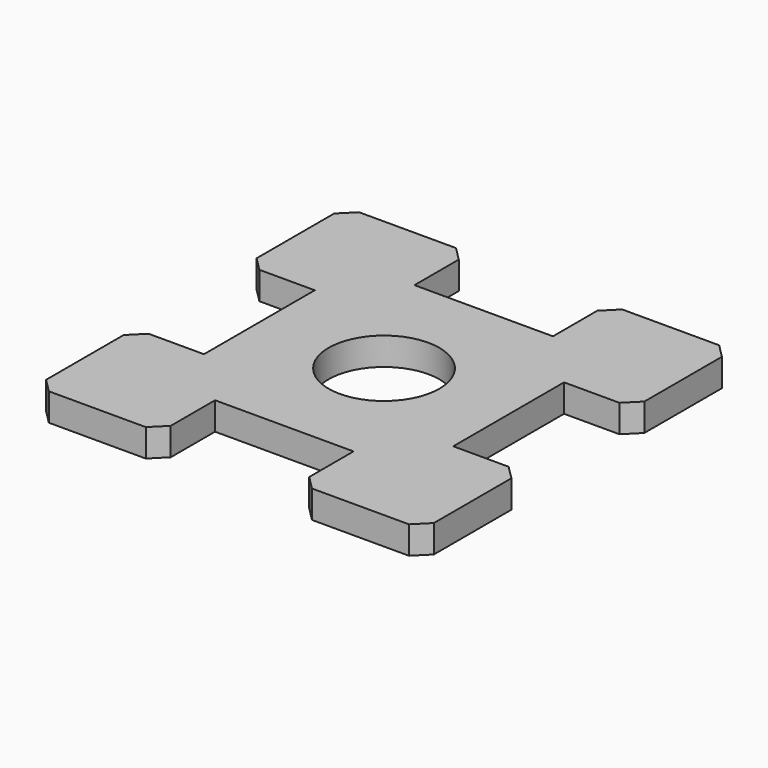
from build123d import *

# Parameters (mm, degrees)
F1_DEPTH = 1
F2_SIZE  = 0.5
F3_R     = 2
F4_DEPTH = 25


with BuildPart() as f1:
    # F0 (on Top) → F1 (new body)
    with BuildSketch(Plane.XY):
        Polygon((-7, -2.5), (-7, -7), (-2.5, -7), (-2.5, -4.5), (2.5, -4.5), (2.5, -7), (7, -7), (7, -2.5), (4.5, -2.5), (4.5, 2.5), (7, 2.5), (7, 7), (2.5, 7), (2.5, 4.5), (-2.5, 4.5), (-2.5, 7), (-7, 7), (-7, 2.5), (-4.5, 2.5), (-4.5, -2.5), align=None)
    extrude(amount=F1_DEPTH)

    # F2
    f2_edges = [f1.edges().sort_by_distance(p)[0] for p in [
        (-7, -7, 0.5),
        (-2.5, -7, 0.5),
        (-7, -2.5, 0.5),
        (-7, 2.5, 0.5),
        (-7, 7, 0.5),
        (-2.5, 7, 0.5),
        (2.5, 7, 0.5),
        (7, 7, 0.5),
        (7, -2.5, 0.5),
        (7, -7, 0.5),
        (2.5, -7, 0.5),
        (7, 2.5, 0.5),
    ]]
    chamfer(f2_edges, length=F2_SIZE)

    # F3 (on face) → F4 (cut)
    with BuildSketch(Plane.XY.offset(1)):
        Circle(F3_R)
    extrude(amount=-F4_DEPTH, mode=Mode.SUBTRACT)


solid = f1.part
